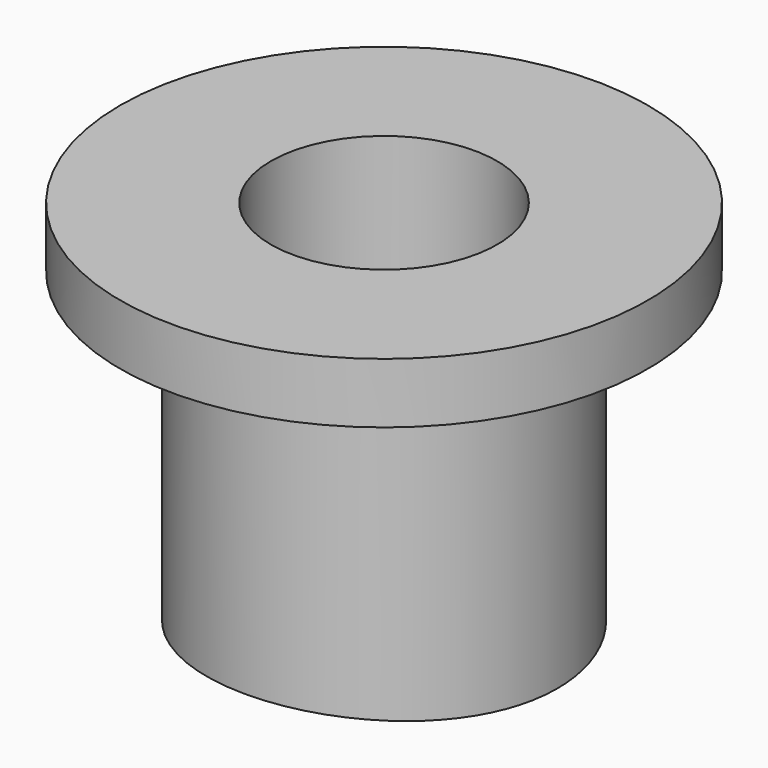
from build123d import *

# Parameters (mm, degrees)
F0_W          = 2.54
F0_H          = 12.7
F3_DEPTH      = 25.4
F2_R          = 69.85
F4_DEPTH      = 25.4
F4_DEPTH_BACK = 25.4


with BuildPart() as f1:
    # F0 (on Front) → F1 (revolve)
    with BuildSketch(Plane.XZ):
        with Locations((-6.0325, 6.35)):
            Rectangle(F0_W, F0_H)
        Polygon((-7.3025, 12.7), (-4.7625, 12.7), (-4.7625, 15.24), (-11.1125, 15.24), (-11.1125, 12.7), align=None)
    revolve(axis=Axis((0, 0, 2.0128042901), (0, 0, 1)))

    # F3 (add): a face of the model
    f3_faces = [f1.faces().sort_by_distance(p)[0] for p in [
        (7.0959541092, 0, 0),
    ]]
    extrude(f3_faces, amount=F3_DEPTH)

    # F2 (on Front) → F4 (cut, two sides)
    with BuildSketch(Plane.XZ) as f4_sk:
        with Locations((0, -69.85)):
            Circle(F2_R)
    extrude(amount=-F4_DEPTH, mode=Mode.SUBTRACT)
    extrude(f4_sk.sketch, amount=F4_DEPTH_BACK, mode=Mode.SUBTRACT)


solid = f1.part
